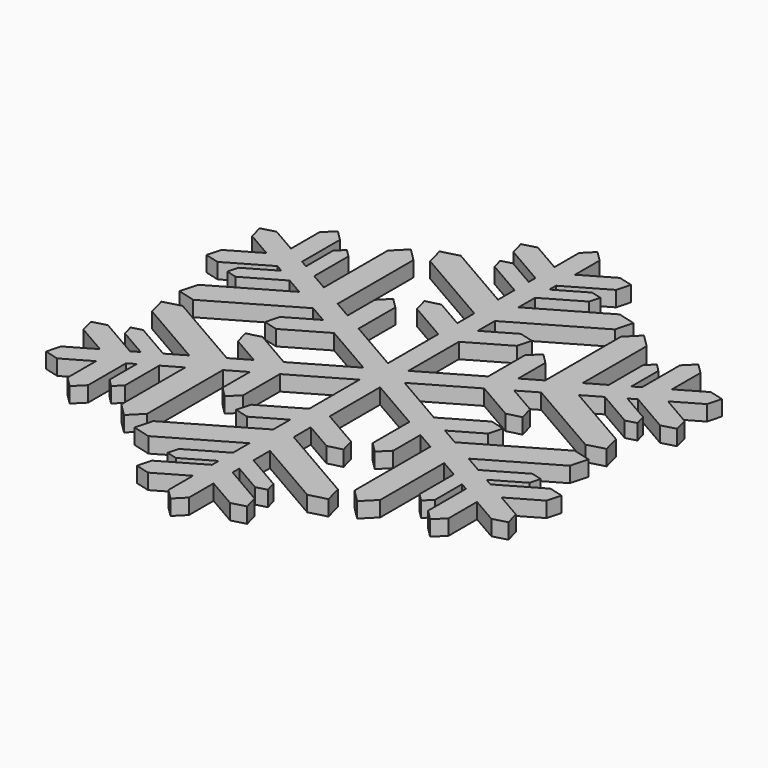
from build123d import *

# Parameters (mm, degrees)
F1_DEPTH = 1.5
F2_SCALE = 2


with BuildPart() as f1:
    # F0 (on Top) → F1 (new body)
    with BuildSketch(Plane.XY):
        Polygon((-0.996763259, -0.5722447949), (0, 0.003236741), (0, 0.0051054743), (-0.0016183705, 0.0060398409), (-0.9983816295, 0.5815213768), (-1, 0.5805870102), (-1.9983816295, 0.0041711076), (-0.9983816295, -0.5731791616), align=None)
        Polygon((0.0016183705, 0.0041711076), (0, 0.003236741), (-0.996763259, -0.5722447949), (-0.996763259, -0.5741135282), (-0.996763259, -1.7269453333), (0.003236741, -1.1495950641), (0.003236741, -1.1477263308), (0.003236741, 0.003236741), align=None)
        Polygon((-0.0016183705, 0.0060398409), (0, 0.0069742075), (0, 0.0088429408), (0, 1.1598060126), (-0.0016183705, 1.1607403793), (-1, 1.7371562818), (-1, 0.5824557435), (-0.9983816295, 0.5815213768), align=None)
        Polygon((0.003236741, 0.0051054743), (0.003236741, 0.003236741), (0.003236741, -1.1477263308), (0.0048551115, -1.1486606975), (1.003236741, -1.7250766), (1.003236741, -0.5703760616), (1.0016183705, -0.569441695), (0.0048551115, 0.0060398409), align=None)
        Polygon((-22.509002287, -12.9923417886), (-0.9983816295, -0.5731791616), (-1.9983816295, 0.0041711076), (-7.3041381311, -3.0591088368), (-11.1726541037, -0.8256200987), (-12.5386795075, -1.1916455025), (-12.1726541037, -2.5576709062), (-9.3041381311, -4.2138093752), (-11.1009542964, -5.2512016719), (-19.0915311457, -0.637839977), (-20.7990629004, -1.0953717318), (-20.3415311457, -2.8029034865), (-13.6009542964, -6.6945773449), (-15.3398081574, -7.6985050896), (-18.9457663497, -5.6166041566), (-19.9702854025, -5.8911232094), (-19.6957663497, -6.9156422623), (-16.8398081574, -8.5645304934), (-17.5496156541, -8.9743380427), (-21.5496156541, -6.664936966), (-22.9156410579, -7.0309623697), (-22.5496156541, -8.3969877735), (-19.5496156541, -10.1290385811), (-22.1429768832, -11.6263163848), align=None)
        Polygon((-0.996763259, -0.5741135282), (-0.9983816295, -0.5731791616), (-22.509002287, -12.9923417886), (-21.1429768832, -13.3583671924), (-18.5496156541, -11.8610893887), (-18.5496156541, -15.3251910038), (-17.5496156541, -16.3251910038), (-16.5496156541, -15.3251910038), (-16.5496156541, -10.7063888503), (-15.8398081574, -10.296581301), (-15.8398081574, -13.5943577632), (-15.0898081574, -14.3443577632), (-14.3398081574, -13.5943577632), (-14.3398081574, -9.4305558972), (-12.6009542964, -8.4266281525), (-12.6009542964, -16.2099758693), (-11.3509542964, -17.4599758693), (-10.1009542964, -16.2099758693), (-10.1009542964, -6.9832524795), (-8.3041381311, -5.9458601828), (-8.3041381311, -9.2581371207), (-7.3041381311, -10.2581371207), (-6.3041381311, -9.2581371207), (-6.3041381311, -4.7911596444), (-0.996763259, -1.7269453333), align=None)
        Polygon((0, 1.1598060126), (0, 0.0088429408), (0.0016183705, 0.0079085742), (0.003236741, 0.0088429408), (1, 0.5843244767), (1, 0.58619321), (1, 1.7390250151), (0, 1.1616747459), align=None)
        Polygon((0.003236741, 0.0069742075), (0.0048551115, 0.0060398409), (1.0016183705, -0.569441695), (1.003236741, -0.5685073284), (2.0016183705, 0.0079085742), (1.0016183705, 0.5852588434), (1, 0.5843244767), (0.003236741, 0.0088429408), align=None)
        Polygon((-7.3057565016, 3.0683854187), (-1.9983816295, 0.0041711076), (-1, 0.5805870102), (-1, 0.5824557435), (-22.5106206575, 13.0016183705), (-22.1445952537, 11.6355929667), (-19.5512340246, 10.138315163), (-22.5512340246, 8.4062643554), (-22.9172594284, 7.0402389516), (-21.5512340246, 6.6742135479), (-17.5512340246, 8.9836146246), (-16.8414265279, 8.5738070753), (-19.6973847202, 6.9249188442), (-19.971903773, 5.9003997913), (-18.9473847202, 5.6258807385), (-15.3414265279, 7.7077816715), (-13.6025726669, 6.7038539268), (-20.3431495162, 2.8121800684), (-20.8006812709, 1.1046483137), (-19.0931495162, 0.6471165589), (-11.1025726669, 5.2604782538), (-9.3057565016, 4.2230859571), (-12.1742724742, 2.5669474881), (-12.540297878, 1.2009220844), (-11.1742724742, 0.8348966806), align=None)
        Polygon((0.003236741, -1.1495950641), (-0.996763259, -1.7269453333), (-0.996763259, -7.8535052222), (-4.8652792316, -10.0869939603), (-5.2313046354, -11.4530193641), (-3.8652792316, -11.8190447679), (-0.996763259, -10.162906299), (-0.996763259, -12.2376908925), (-8.9873401083, -16.8510525874), (-9.444871863, -18.5585843421), (-7.7373401083, -19.0161160968), (-0.996763259, -15.1244422384), (-0.996763259, -17.1322977278), (-4.6027214513, -19.2141986608), (-4.8772405042, -20.2387177136), (-3.8527214513, -20.5132367665), (-0.996763259, -18.8643485353), (-0.996763259, -19.683963634), (-4.996763259, -21.9933647107), (-5.3627886628, -23.3593901145), (-3.996763259, -23.7254155183), (-0.996763259, -21.9933647107), (-0.996763259, -24.9879203182), (0.003236741, -25.9879203182), align=None)
        Polygon((-22.5106206575, 13.0016183705), (-1, 0.5824557435), (-1, 1.7371562818), (-6.3057565016, 4.8004362263), (-6.3057565016, 9.2674137026), (-7.3057565016, 10.2674137026), (-8.3057565016, 9.2674137026), (-8.3057565016, 5.9551367647), (-10.1025726669, 6.9925290614), (-10.1025726669, 16.2192524512), (-11.3525726669, 17.4692524512), (-12.6025726669, 16.2192524512), (-12.6025726669, 8.4359047344), (-14.3414265279, 9.4398324791), (-14.3414265279, 13.6036343451), (-15.0914265279, 14.3536343451), (-15.8414265279, 13.6036343451), (-15.8414265279, 10.3058578829), (-16.5512340246, 10.7156654322), (-16.5512340246, 15.3344675857), (-17.5512340246, 16.3344675857), (-18.5512340246, 15.3344675857), (-18.5512340246, 11.8703659706), (-21.1445952537, 13.3676437743), align=None)
        Polygon((0.0048551115, -1.1486606975), (0.003236741, -1.1495950641), (0.003236741, -25.9879203182), (1.003236741, -24.9879203182), (1.003236741, -21.9933647107), (4.003236741, -23.7254155183), (5.3692621448, -23.3593901145), (5.003236741, -21.9933647107), (1.003236741, -19.683963634), (1.003236741, -18.8643485353), (3.8591949333, -20.5132367665), (4.8837139861, -20.2387177136), (4.6091949333, -19.2141986608), (1.003236741, -17.1322977278), (1.003236741, -15.1244422384), (7.7438135902, -19.0161160968), (9.451345345, -18.5585843421), (8.9938135902, -16.8510525874), (1.003236741, -12.2376908925), (1.003236741, -10.162906299), (3.8717527136, -11.8190447679), (5.2377781174, -11.4530193641), (4.8717527136, -10.0869939603), (1.003236741, -7.8535052222), (1.003236741, -1.7250766), align=None)
        Polygon((-0.0016183705, 1.1607403793), (0, 1.1616747459), (0, 26), (-1, 25), (-1, 22.0054443926), (-4, 23.7374952001), (-5.3660254038, 23.3714697963), (-5, 22.0054443926), (-1, 19.6960433158), (-1, 18.8764282172), (-3.8559581923, 20.5253164483), (-4.8804772451, 20.2507973955), (-4.6059581923, 19.2262783426), (-1, 17.1443774096), (-1, 15.1365219202), (-7.7405768493, 19.0281957786), (-9.448108604, 18.5706640239), (-8.9905768493, 16.8631322692), (-1, 12.2497705743), (-1, 10.1749859808), (-3.8685159726, 11.8311244497), (-5.2345413764, 11.4650990459), (-4.8685159726, 10.0990736422), (-1, 7.865584904), (-1, 1.7371562818), align=None)
        Polygon((0, 26), (0, 1.1616747459), (1, 1.7390250151), (1, 7.865584904), (4.8685159726, 10.0990736422), (5.2345413764, 11.4650990459), (3.8685159726, 11.8311244497), (1, 10.1749859808), (1, 12.2497705743), (8.9905768493, 16.8631322692), (9.448108604, 18.5706640239), (7.7405768493, 19.0281957786), (1, 15.1365219202), (1, 17.1443774096), (4.6059581923, 19.2262783426), (4.8804772451, 20.2507973955), (3.8559581923, 20.5253164483), (1, 18.8764282172), (1, 19.6960433158), (5, 22.0054443926), (5.3660254038, 23.3714697963), (4, 23.7374952001), (1, 22.0054443926), (1, 25), align=None)
        Polygon((1.003236741, -0.5703760616), (1.003236741, -1.7250766), (6.3089932426, -4.7883565445), (6.3089932426, -9.2553340208), (7.3089932426, -10.2553340208), (8.3089932426, -9.2553340208), (8.3089932426, -5.9430570828), (10.1058094079, -6.9804493796), (10.1058094079, -16.2071727694), (11.3558094079, -17.4571727694), (12.6058094079, -16.2071727694), (12.6058094079, -8.4238250526), (14.3446632689, -9.4277527973), (14.3446632689, -13.5915546633), (15.0946632689, -14.3415546633), (15.8446632689, -13.5915546633), (15.8446632689, -10.293778201), (16.5544707656, -10.7035857504), (16.5544707656, -15.3223879039), (17.5544707656, -16.3223879039), (18.5544707656, -15.3223879039), (18.5544707656, -11.8582862887), (21.1478319947, -13.3555640925), (22.5138573985, -12.9895386887), align=None)
        Polygon((1.003236741, -0.5685073284), (1.003236741, -0.5703760616), (22.5138573985, -12.9895386887), (22.1478319947, -11.6235132849), (19.5544707656, -10.1262354812), (22.5544707656, -8.3941846736), (22.9204961694, -7.0281592698), (21.5544707656, -6.662133866), (17.5544707656, -8.9715349428), (16.8446632689, -8.5617273935), (19.7006214612, -6.9128391623), (19.975140514, -5.8883201095), (18.9506214612, -5.6138010567), (15.3446632689, -7.6957019897), (13.6058094079, -6.691774245), (20.3463862572, -2.8001003866), (20.8039180119, -1.0925686319), (19.0963862572, -0.6350368771), (11.1058094079, -5.248398572), (9.3089932426, -4.2110062753), (12.1775092152, -2.5548678063), (12.543534619, -1.1888424025), (11.1775092152, -0.8228169988), (7.3089932426, -3.0563057369), (2.0016183705, 0.0079085742), align=None)
        Polygon((6.3073748721, 4.8032393262), (1, 1.7390250151), (1, 0.58619321), (1.0016183705, 0.5852588434), (22.512239028, 13.0044214704), (21.1462136242, 13.3704468742), (18.5528523951, 11.8731690705), (18.5528523951, 15.3372706856), (17.5528523951, 16.3372706856), (16.5528523951, 15.3372706856), (16.5528523951, 10.7184685321), (15.8430448984, 10.3086609828), (15.8430448984, 13.606437445), (15.0930448984, 14.356437445), (14.3430448984, 13.606437445), (14.3430448984, 9.442635579), (12.6041910374, 8.4387078343), (12.6041910374, 16.2220555511), (11.3541910374, 17.4720555511), (10.1041910374, 16.2220555511), (10.1041910374, 6.9953321613), (8.3073748721, 5.9579398646), (8.3073748721, 9.2702168025), (7.3073748721, 10.2702168025), (6.3073748721, 9.2702168025), align=None)
        Polygon((22.512239028, 13.0044214704), (1.0016183705, 0.5852588434), (2.0016183705, 0.0079085742), (7.3073748721, 3.0711885186), (11.1758908447, 0.8376997805), (12.5419162485, 1.2037251843), (12.1758908447, 2.5697505881), (9.3073748721, 4.225889057), (11.1041910374, 5.2632813538), (19.0947678867, 0.6499196589), (20.8022996414, 1.1074514136), (20.3447678867, 2.8149831683), (13.6041910374, 6.7066570267), (15.3430448984, 7.7105847714), (18.9490030907, 5.6286838384), (19.9735221435, 5.9032028913), (19.6990030907, 6.9277219441), (16.8430448984, 8.5766101752), (17.5528523951, 8.9864177245), (21.5528523951, 6.6770166478), (22.9188777989, 7.0430420516), (22.5528523951, 8.4090674553), (19.5528523951, 10.1411182629), (22.1462136242, 11.6383960666), align=None)
    extrude(amount=F1_DEPTH)


with BuildPart() as f1_1:
    # F2: moved
    add(f1.part.scale(F2_SCALE))


solid = f1_1.part
